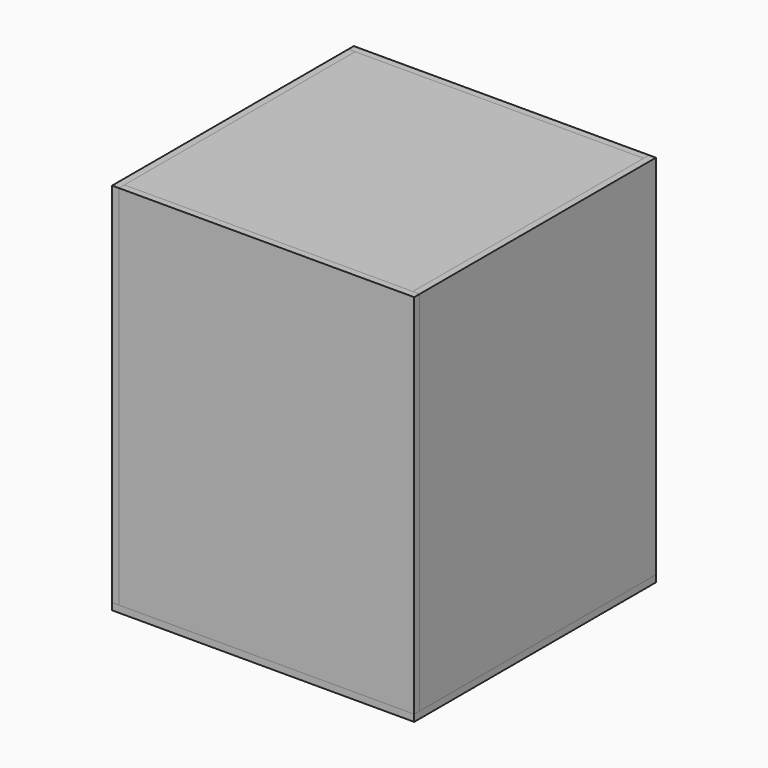
from build123d import *

# Parameters (mm, degrees)
F0_W      = 550
F0_H      = 550
F1_DEPTH  = 700
F2_W      = 500
F2_H      = 500
F3_DEPTH  = 670
F3_TAPER  = 3
F5_DEPTH  = 13
F7_DEPTH  = 13
F9_DEPTH  = 13
F11_DEPTH = 13
F12_W     = 403.8092078571
F12_H     = 403.8092078571
F13_DEPTH = 13
F14_W     = 563
F14_H     = 700
F15_DEPTH = 13
F16_W     = 563
F16_H     = 700
F17_DEPTH = 13
F18_W     = 563
F18_H     = 700
F19_DEPTH = 13
F20_W     = 563
F20_H     = 700
F21_DEPTH = 13
F22_W     = 576
F22_H     = 576
F23_DEPTH = 13


with BuildPart() as f1:
    # F0 (on Top) → F1 (new body)
    with BuildSketch(Plane.XY):
        Rectangle(F0_W, F0_H)
    extrude(amount=F1_DEPTH)

    # F2 (on Top) → F3 (cut)
    with BuildSketch(Plane.XY):
        Rectangle(F2_W, F2_H)
    extrude(amount=F3_DEPTH, taper=F3_TAPER, mode=Mode.SUBTRACT)


with BuildPart() as f5:
    # F4 (on face) → F5 (new body)
    with BuildSketch(Plane(origin=(0, -249.315236921, 13.0660579085), x_dir=(-1, 0, 0), z_dir=(0, 0.9986295348, -0.0523359562))):
        Polygon((-236.9822083347, -13.0839890607), (250, -13.0839890607), (214.8867878804, 657.8354827579), (-201.8689962151, 657.8354827579), align=None)
    extrude(amount=F5_DEPTH)


with BuildPart() as f7:
    # F6 (on face) → F7 (new body)
    with BuildSketch(Plane(origin=(249.315236921, 0, 13.0660579085), x_dir=(0, -1, 0), z_dir=(-0.9986295348, 0, -0.0523359562))):
        Polygon((-236.9822083347, -13.0839890607), (250, -13.0839890607), (214.8867878804, 657.8354827579), (-201.8689962151, 657.8354827579), align=None)
    extrude(amount=F7_DEPTH)


with BuildPart() as f9:
    # F8 (on face) → F9 (new body)
    with BuildSketch(Plane(origin=(0, 249.315236921, 13.0660579085), x_dir=(1, 0, 0), z_dir=(0, -0.9986295348, -0.0523359562))):
        Polygon((-236.9822083347, -13.0839890607), (250, -13.0839890607), (214.8867878804, 657.8354827579), (-201.8689962151, 657.8354827579), align=None)
    extrude(amount=F9_DEPTH)


with BuildPart() as f11:
    # F10 (on face) → F11 (new body)
    with BuildSketch(Plane(origin=(-249.315236921, 0, 13.0660579085), x_dir=(0, 1, 0), z_dir=(0.9986295348, 0, -0.0523359562))):
        Polygon((-236.9822083347, -13.0839890607), (250, -13.0839890607), (214.8867878804, 657.8354827579), (-201.8689962151, 657.8354827579), align=None)
    extrude(amount=F11_DEPTH)


with BuildPart() as f13:
    # F12 (on face) → F13 (new body)
    with BuildSketch(Plane(origin=(0, 0, 670), x_dir=(1, 0, 0), z_dir=(0, 0, -1))):
        Rectangle(F12_W, F12_H)
    extrude(amount=F13_DEPTH)


with BuildPart() as f15:
    # F14 (on face) → F15 (new body)
    with BuildSketch(Plane(origin=(0, 275, 0), x_dir=(-1, 0, 0), z_dir=(0, 1, 0))):
        with Locations((6.5, 350)):
            Rectangle(F14_W, F14_H)
    extrude(amount=F15_DEPTH)


with BuildPart() as f17:
    # F16 (on face) → F17 (new body)
    with BuildSketch(Plane(origin=(-275, 0, 0), x_dir=(0, -1, 0), z_dir=(-1, 0, 0))):
        with Locations((6.5, 350)):
            Rectangle(F16_W, F16_H)
    extrude(amount=F17_DEPTH)


with BuildPart() as f19:
    # F18 (on face) → F19 (new body)
    with BuildSketch(Plane.XZ.offset(275)):
        with Locations((6.5, 350)):
            Rectangle(F18_W, F18_H)
    extrude(amount=F19_DEPTH)


with BuildPart() as f21:
    # F20 (on face) → F21 (new body)
    with BuildSketch(Plane.YZ.offset(275)):
        with Locations((6.5, 350)):
            Rectangle(F20_W, F20_H)
    extrude(amount=F21_DEPTH)


with BuildPart() as f23:
    # F22 (on Top) → F23 (new body)
    with BuildSketch(Plane.XY):
        Rectangle(F22_W, F22_H)
    extrude(amount=-F23_DEPTH)


solid = Compound([f1.part, f5.part, f7.part, f9.part, f11.part, f13.part, f15.part, f17.part, f19.part, f21.part, f23.part])
